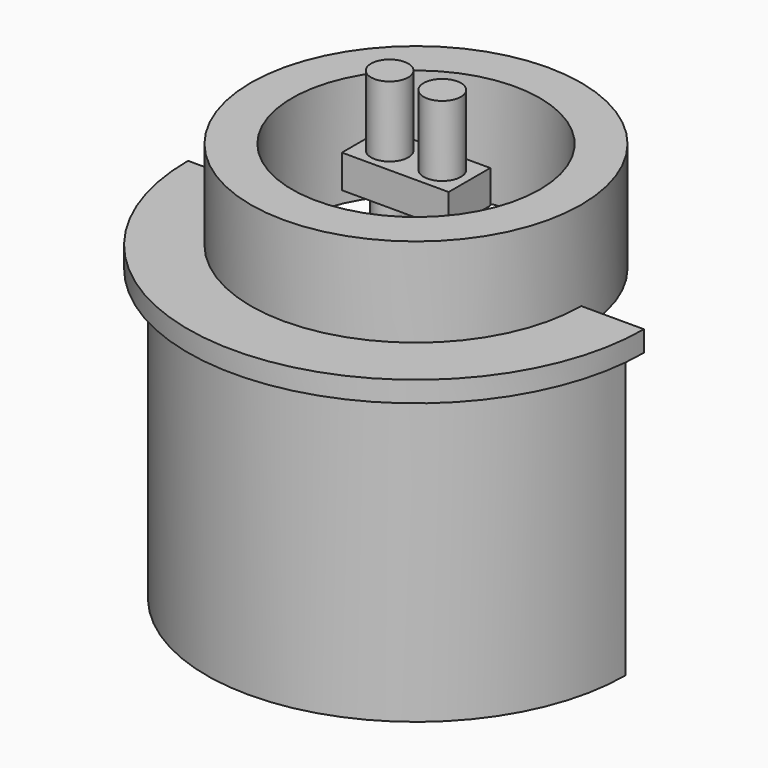
from build123d import *

# Parameters (mm, degrees)
BOX001_W          = 5.15
BOX001_H          = 2.51
BOX001_DEPTH      = 1.6
CYLINDER005_R     = 0.9
CYLINDER005_DEPTH = 5
CYLINDER004_R     = 0.9
CYLINDER004_DEPTH = 5
CYLINDER007_R     = 0.75
CYLINDER007_DEPTH = 2
CYLINDER006_R     = 0.75
CYLINDER006_DEPTH = 2
SKETCH001_R       = 7.970845
SKETCH001_R_2     = 5.978717
PAD001_DEPTH      = 5.3
CYLINDER010_R     = 0.9
CYLINDER010_DEPTH = 10
BOX002_W          = 30
BOX002_H          = 30
BOX002_DEPTH      = 30
BOX_W             = 5.15
BOX_H             = 2.51
BOX_DEPTH         = 1.6
CYLINDER_R        = 0.9
CYLINDER_DEPTH    = 2
CYLINDER001_R     = 0.9
CYLINDER001_DEPTH = 2
CYLINDER002_R     = 0.75
CYLINDER002_DEPTH = 20
CYLINDER003_R     = 0.75
CYLINDER003_DEPTH = 20
SKETCH_R          = 7.970653
SKETCH_R_2        = 6.035063
PAD_DEPTH         = 20.3
CYLINDER008_R     = 10.1
CYLINDER008_DEPTH = 15
CYLINDER009_R     = 11
CYLINDER009_DEPTH = 1


with BuildPart() as box001:
    # Box001 → Box001 (new body)
    with BuildSketch(Plane(origin=(-2.57, -1.255, 0), x_dir=(1, 0, 0), z_dir=(0, 0, 1))):
        with Locations((2.575, 1.255)):
            Rectangle(BOX001_W, BOX001_H)
    extrude(amount=BOX001_DEPTH)


with BuildPart() as cylinder005:
    # Cylinder005 → Cylinder005 (new body)
    with BuildSketch(Plane(origin=(1.27, 0, 0), x_dir=(1, 0, 0), z_dir=(0, 0, 1))):
        Circle(CYLINDER005_R)
    extrude(amount=CYLINDER005_DEPTH)


with BuildPart() as cylinder004:
    # Cylinder004 → Cylinder004 (new body)
    with BuildSketch(Plane(origin=(-1.27, 0, 0), x_dir=(1, 0, 0), z_dir=(0, 0, 1))):
        Circle(CYLINDER004_R)
    extrude(amount=CYLINDER004_DEPTH)


with BuildPart() as cylinder007:
    # Cylinder007 → Cylinder007 (new body)
    with BuildSketch(Plane(origin=(-1.27, 0, -2), x_dir=(1, 0, 0), z_dir=(0, 0, 1))):
        Circle(CYLINDER007_R)
    extrude(amount=CYLINDER007_DEPTH)


with BuildPart() as fusion001:
    # Cylinder006 → Cylinder006 (new body)
    with BuildSketch(Plane(origin=(1.27, 0, -2), x_dir=(1, 0, 0), z_dir=(0, 0, 1))):
        Circle(CYLINDER006_R)
    extrude(amount=CYLINDER006_DEPTH)

    # Fusion001: union Box001, Cylinder005, Cylinder004, Cylinder007
    add(box001.part)
    add(cylinder005.part)
    add(cylinder004.part)
    add(cylinder007.part)


with BuildPart() as fusion001_1:
    # Fusion001 placement: moved
    add(fusion001.part.moved(Location((0, 0, 4))))


with BuildPart() as body002:
    # Sketch001 → Pad001 (new body)
    with BuildSketch(Plane.XY):
        Circle(SKETCH001_R)
        Circle(SKETCH001_R_2, mode=Mode.SUBTRACT)
    extrude(amount=PAD001_DEPTH)


with BuildPart() as body002_1:
    # Body002 placement: moved
    add(body002.part.moved(Location((0, 0, 1))))


with BuildPart() as cylinder010:
    # Cylinder010 → Cylinder010 (new body)
    with BuildSketch(Plane(origin=(4.25, 0, 0), x_dir=(1, 0, 0), z_dir=(0, 0, 1))):
        Circle(CYLINDER010_R)
    extrude(amount=CYLINDER010_DEPTH)


with BuildPart() as box002:
    # Box002 → Box002 (new body)
    with BuildSketch(Plane(origin=(-15, 0, -15), x_dir=(1, 0, 0), z_dir=(0, 0, 1))):
        with Locations((15, 15)):
            Rectangle(BOX002_W, BOX002_H)
    extrude(amount=BOX002_DEPTH)


with BuildPart() as box:
    # Box → Box (new body)
    with BuildSketch(Plane(origin=(-2.57, -1.255, 0), x_dir=(1, 0, 0), z_dir=(0, 0, 1))):
        with Locations((2.575, 1.255)):
            Rectangle(BOX_W, BOX_H)
    extrude(amount=BOX_DEPTH)


with BuildPart() as cylinder:
    # Cylinder → Cylinder (new body)
    with BuildSketch(Plane(origin=(1.27, 0, 0), x_dir=(1, 0, 0), z_dir=(0, 0, 1))):
        Circle(CYLINDER_R)
    extrude(amount=CYLINDER_DEPTH)


with BuildPart() as cylinder001:
    # Cylinder001 → Cylinder001 (new body)
    with BuildSketch(Plane(origin=(-1.27, 0, 0), x_dir=(1, 0, 0), z_dir=(0, 0, 1))):
        Circle(CYLINDER001_R)
    extrude(amount=CYLINDER001_DEPTH)


with BuildPart() as cylinder002:
    # Cylinder002 → Cylinder002 (new body)
    with BuildSketch(Plane(origin=(-1.27, 0, -20), x_dir=(1, 0, 0), z_dir=(0, 0, 1))):
        Circle(CYLINDER002_R)
    extrude(amount=CYLINDER002_DEPTH)


with BuildPart() as fusion:
    # Cylinder003 → Cylinder003 (new body)
    with BuildSketch(Plane(origin=(1.27, 0, -20), x_dir=(1, 0, 0), z_dir=(0, 0, 1))):
        Circle(CYLINDER003_R)
    extrude(amount=CYLINDER003_DEPTH)

    # Fusion: union Box, Cylinder, Cylinder001, Cylinder002
    add(box.part)
    add(cylinder.part)
    add(cylinder001.part)
    add(cylinder002.part)


with BuildPart() as body001:
    # Sketch → Pad (new body)
    with BuildSketch(Plane.XY):
        Circle(SKETCH_R)
        Circle(SKETCH_R_2, mode=Mode.SUBTRACT)
    extrude(amount=PAD_DEPTH)


with BuildPart() as body001_1:
    # Body001 placement: moved
    add(body001.part.moved(Location((0, 0, -18.6))))


with BuildPart() as cylinder008:
    # Cylinder008 → Cylinder008 (new body)
    with BuildSketch(Plane.XY.offset(-13)):
        Circle(CYLINDER008_R)
    extrude(amount=CYLINDER008_DEPTH)


with BuildPart() as cut003:
    # Cylinder009 → Cylinder009 (new body)
    with BuildSketch(Plane.XY.offset(1)):
        Circle(CYLINDER009_R)
    extrude(amount=CYLINDER009_DEPTH)

    # Fusion002: union Cylinder008
    add(cylinder008.part)

    # Cut: cut Body001
    add(body001_1.part, mode=Mode.SUBTRACT)

    # Cut001: cut Fusion
    add(fusion.part, mode=Mode.SUBTRACT)

    # Cut002: cut Box002
    add(box002.part, mode=Mode.SUBTRACT)

    # Cut003: cut Cylinder010
    add(cylinder010.part, mode=Mode.SUBTRACT)


solid = Compound([fusion001_1.part, body002_1.part, cut003.part])
